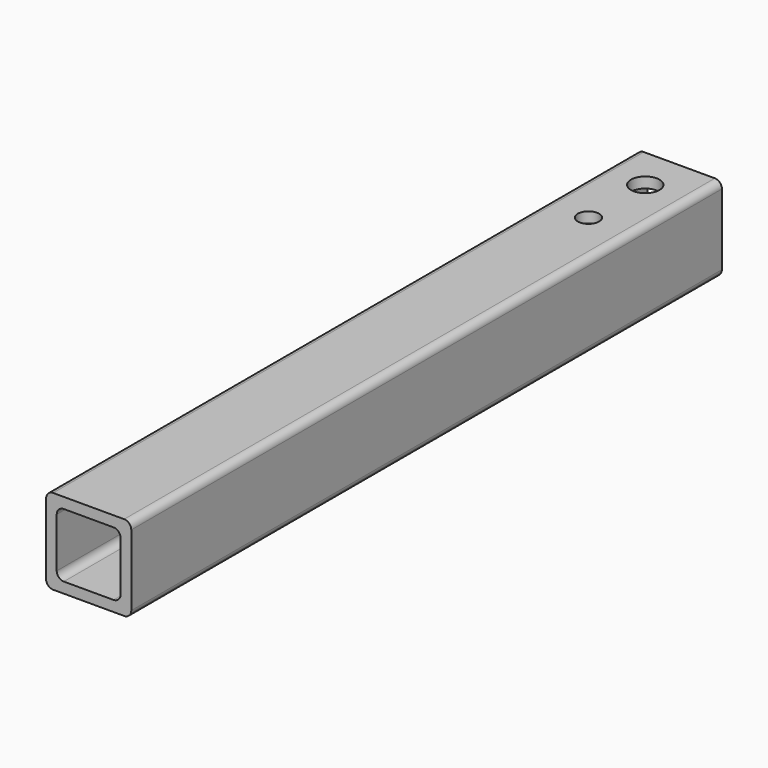
from build123d import *

# Parameters (mm, degrees)
F3_DEPTH = 330.2
F4_D     = 12.7
F4_DEPTH = 19.051
F5_D     = 12.7
F6_D     = 9.525
F6_DEPTH = 19.051
F2_D     = 9.525


with BuildPart() as f3:
    # F0 (on Front) → F3 (new body)
    with BuildSketch(Plane.XZ):
        with BuildLine():
            Line((-15.875, -19.05), (15.875, -19.05))
            ThreePointArc((15.875, -19.05), (18.1200640303, -18.1200640303), (19.05, -15.875))
            Line((19.05, -15.875), (19.05, 15.875))
            ThreePointArc((19.05, 15.875), (18.1200640303, 18.1200640303), (15.875, 19.05))
            Line((15.875, 19.05), (-15.875, 19.05))
            ThreePointArc((-15.875, 19.05), (-18.1200640303, 18.1200640303), (-19.05, 15.875))
            Line((-19.05, 15.875), (-19.05, -15.875))
            ThreePointArc((-19.05, -15.875), (-18.1200640303, -18.1200640303), (-15.875, -19.05))
        make_face()
        with BuildLine():
            ThreePointArc((14.2875, -11.1125), (13.3575640303, -13.3575640303), (11.1125, -14.2875))
            Line((11.1125, -14.2875), (-11.1125, -14.2875))
            ThreePointArc((-11.1125, -14.2875), (-13.3575640303, -13.3575640303), (-14.2875, -11.1125))
            Line((-14.2875, -11.1125), (-14.2875, 11.1125))
            ThreePointArc((-14.2875, 11.1125), (-13.3575640303, 13.3575640303), (-11.1125, 14.2875))
            Line((-11.1125, 14.2875), (11.1125, 14.2875))
            ThreePointArc((11.1125, 14.2875), (13.3575640303, 13.3575640303), (14.2875, 11.1125))
            Line((14.2875, 11.1125), (14.2875, -11.1125))
        make_face(mode=Mode.SUBTRACT)
    extrude(amount=F3_DEPTH)

    # F4 (through all, one way)
    with BuildSketch(Plane.XY):
        with Locations((0, -19.05)):
            Circle(F4_D / 2)
    extrude(amount=-F4_DEPTH, mode=Mode.SUBTRACT)

    # F5 (through all)
    with Locations(Plane(origin=(0, 0, 0), x_dir=(1, 0, 0), z_dir=(0, 0, -1))):
        with Locations((0, 19.05)):
            Hole(F5_D / 2)

    # F6 (through all, one way)
    with BuildSketch(Plane.XY):
        with Locations((0, -50.8)):
            Circle(F6_D / 2)
    extrude(amount=-F6_DEPTH, mode=Mode.SUBTRACT)

    # F2 (through all)
    with Locations(Plane(origin=(0, 0, 0), x_dir=(1, 0, 0), z_dir=(0, 0, -1))):
        with Locations((0, 50.8)):
            Hole(F2_D / 2)


solid = f3.part
